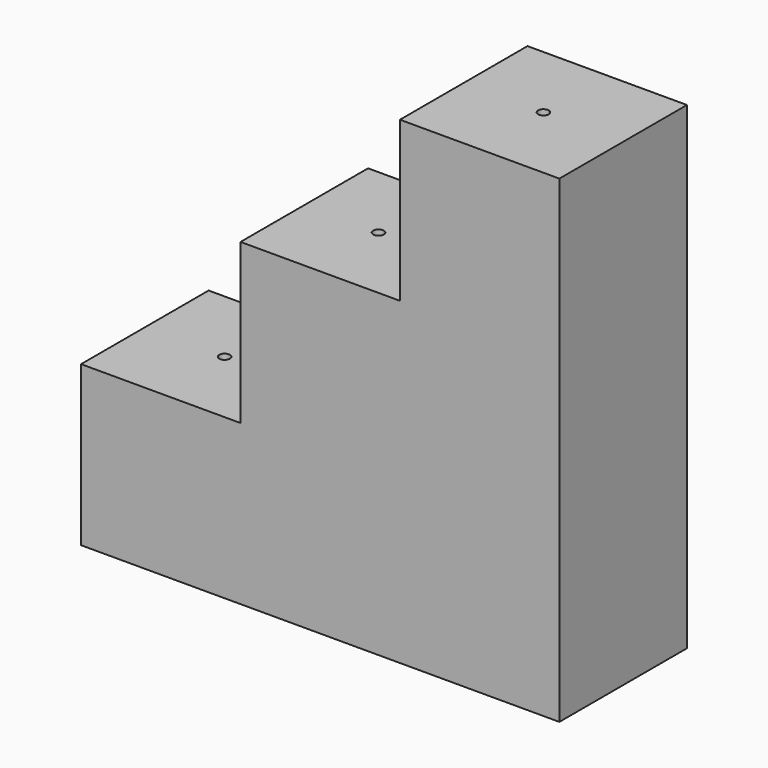
from build123d import *

# Parameters (mm, degrees)
F1_DEPTH = 300
F2_R     = 10
F3_DEPTH = 900.001
F4_R     = 10
F5_DEPTH = 300.001


with BuildPart() as f1:
    # F0 (on Front) → F1 (new body)
    with BuildSketch(Plane.XZ):
        Polygon((-439.681851, -440.06641), (460.318149, -440.06641), (460.318149, 459.93359), (160.318149, 459.93359), (160.318149, 159.93359), (-139.681851, 159.93359), (-139.681851, -140.06641), (-439.681851, -140.06641), align=None)
    extrude(amount=F1_DEPTH)

    # F2 (on face) → F3 (cut, through all)
    with BuildSketch(Plane.XY.offset(459.93359)):
        with Locations((310.318149, -150)):
            Circle(F2_R)
        with Locations((0, -150)):
            Circle(F2_R)
    extrude(amount=-F3_DEPTH, mode=Mode.SUBTRACT)

    # F4 (on face) → F5 (cut, through all)
    with BuildSketch(Plane.XY.offset(-140.06641)):
        with Locations((-289.681851, -150)):
            Circle(F4_R)
    extrude(amount=-F5_DEPTH, mode=Mode.SUBTRACT)


solid = f1.part
